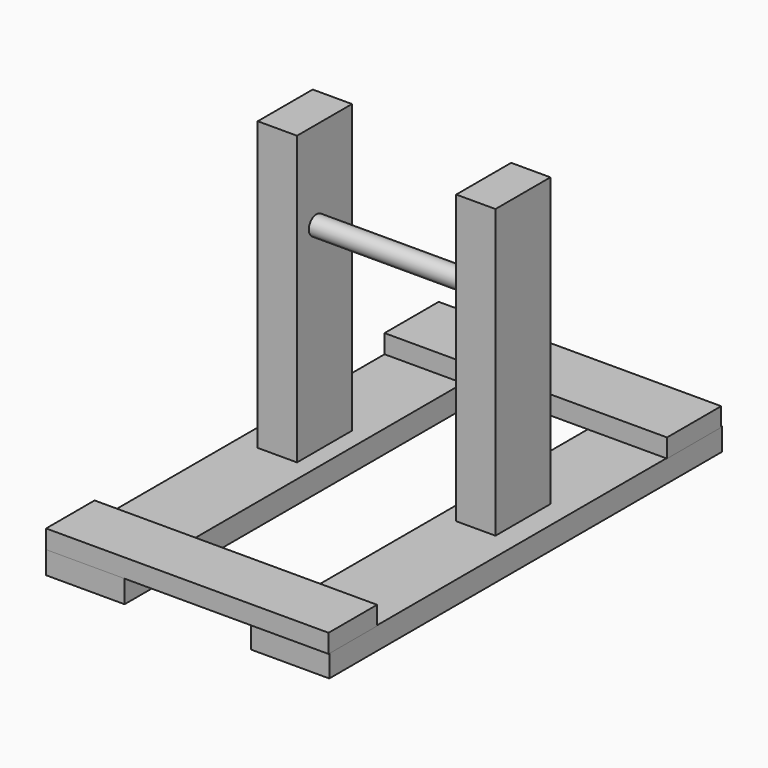
from build123d import *

# Parameters (mm, degrees)
F0_W     = 20.32
F0_H     = 127
F1_DEPTH = 5.842
F2_W     = 10.16
F2_H     = 17.78
F3_DEPTH = 74.422
F5_R     = 2.487291
F6_DEPTH = 41.656
F7_W     = 73.10063
F7_H     = 15.692239
F7_H_2   = 17.519198
F8_DEPTH = 4.826


with BuildPart() as f1:
    # F0 (on Top) → F1 (new body)
    with BuildSketch(Plane.XY):
        with Locations((-37.10764, -15.75239)):
            Rectangle(F0_W, F0_H)
        with Locations((15.482787, -15.27817)):
            Rectangle(F0_W, F0_H)
    extrude(amount=F1_DEPTH)


with BuildPart() as f3:
    # F2 (on face) → F3 (new body)
    with BuildSketch(Plane.XY.offset(5.842)):
        with Locations((-36.59238, -8.89)):
            Rectangle(F2_W, F2_H)
        with Locations((14.762063, -8.89)):
            Rectangle(F2_W, F2_H)
    extrude(amount=F3_DEPTH)


with BuildPart() as f6:
    # F5 (on face) → F6 (new body)
    with BuildSketch(Plane.YZ.offset(-31.51238)):
        with Locations((-11.470643, 57.3483)):
            Circle(F5_R)
    extrude(amount=F6_DEPTH)


with BuildPart() as f8:
    # F7 (on face) → F8 (new body)
    with BuildSketch(Plane.XY.offset(5.842)):
        with Locations((-10.717325, -71.40627)):
            Rectangle(F7_W, F7_H)
        with Locations((-10.717325, 38.988011)):
            Rectangle(F7_W, F7_H_2)
    extrude(amount=F8_DEPTH)


solid = Compound([f1.part, f3.part, f6.part, f8.part])
